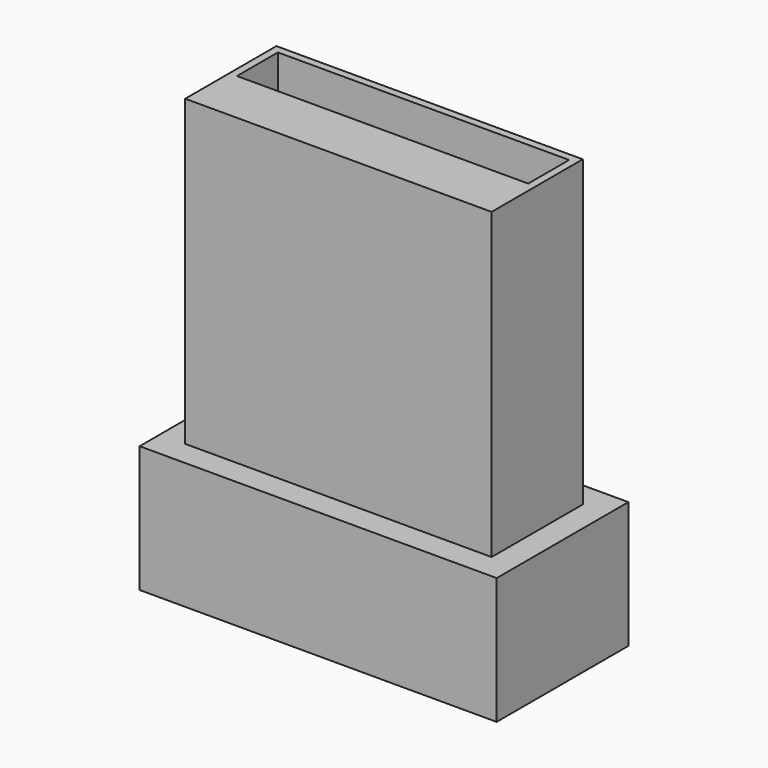
from build123d import *

# Parameters (mm, degrees)
F0_W     = 12.1
F0_H     = 4.5
F0_W_2   = 11.5
F0_H_2   = 3.9
F1_DEPTH = 12
F2_W     = 11.5
F2_H     = 1.88
F3_DEPTH = 12
F4_W     = 14.16
F4_H     = 6.56
F4_W_2   = 12.1
F4_H_2   = 4.5
F5_DEPTH = 5
F7_W     = 14.1
F7_H     = 6.5
F8_DEPTH = 5


with BuildPart() as f1:
    # F0 (on Top) → F1 (new body)
    with BuildSketch(Plane.XY):
        with Locations((6.05, 2.25)):
            Rectangle(F0_W, F0_H)
        with Locations((6.05, 2.25)):
            Rectangle(F0_W_2, F0_H_2, mode=Mode.SUBTRACT)
    extrude(amount=F1_DEPTH)

    # F2 (on Top) → F3 (join)
    with BuildSketch(Plane.XY):
        with Locations((6.05, 1.24)):
            Rectangle(F2_W, F2_H)
    extrude(amount=F3_DEPTH)

    # F7 (on face) → F8 (join)
    with BuildSketch(Plane(origin=(0, 0, 0), x_dir=(1, 0, 0), z_dir=(0, 0, -1))):
        with Locations((6.05, -2.25)):
            Rectangle(F7_W, F7_H)
    extrude(amount=F8_DEPTH)


with BuildPart() as f5:
    # F4 (on face) → F5 (new body)
    with BuildSketch(Plane(origin=(0, 0, 0), x_dir=(1, 0, 0), z_dir=(0, 0, -1))):
        with Locations((6.05, -2.25)):
            Rectangle(F4_W, F4_H)
        with Locations((6.05, -2.25)):
            Rectangle(F4_W_2, F4_H_2, mode=Mode.SUBTRACT)
    extrude(amount=F5_DEPTH)


solid = f1.part
